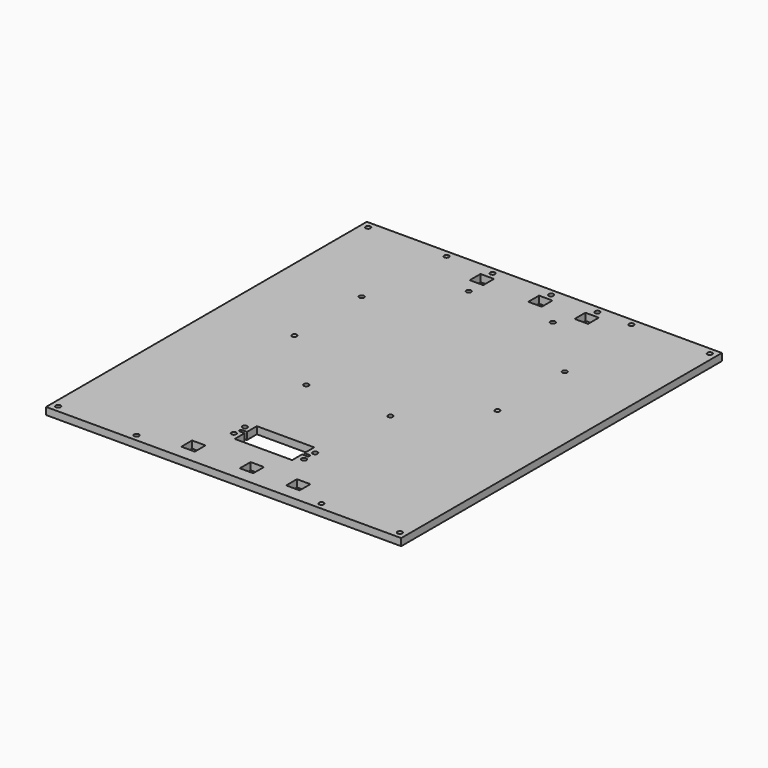
from build123d import *

# Parameters (mm, degrees)
F0_W     = 251.524948
F0_H     = 283.958055
F0_R     = 1.7272
F0_W_2   = 9.525
F0_H_2   = 9.525
F1_DEPTH = 5.08


with BuildPart() as f1:
    # F0 (on Top) → F1 (new body)
    with BuildSketch(Plane.XY):
        with Locations((125.762474, -141.979028)):
            Rectangle(F0_W, F0_H)
        with Locations((4.7625, -279.195555)):
            Circle(F0_R, mode=Mode.SUBTRACT)
        with Locations((60.325, -279.195555)):
            Circle(F0_R, mode=Mode.SUBTRACT)
        with Locations((92.9275, -269.670555)):
            Rectangle(F0_W_2, F0_H_2, mode=Mode.SUBTRACT)
        with Locations((100.870474, -243.82244)):
            Circle(F0_R, mode=Mode.SUBTRACT)
        with Locations((100.870474, -234.04344)):
            Circle(F0_R, mode=Mode.SUBTRACT)
        with BuildLine():
            Line((105.442474, -229.15394), (146.082474, -229.15394))
            Line((146.082474, -229.15394), (146.082474, -237.91694))
            Line((146.082474, -237.91694), (149.511474, -237.91694))
            ThreePointArc((149.511474, -237.91694), (150.527474, -238.93294), (149.511474, -239.94894))
            Line((149.511474, -239.94894), (146.082474, -239.94894))
            Line((146.082474, -239.94894), (146.082474, -248.71194))
            Line((146.082474, -248.71194), (105.442474, -248.71194))
            Line((105.442474, -248.71194), (105.442474, -239.94894))
            Line((105.442474, -239.94894), (102.013474, -239.94894))
            ThreePointArc((102.013474, -239.94894), (100.997474, -238.93294), (102.013474, -237.91694))
            Line((102.013474, -237.91694), (105.442474, -237.91694))
            Line((105.442474, -237.91694), (105.442474, -229.15394))
        make_face(mode=Mode.SUBTRACT)
        with Locations((95.982059, -173.528755)):
            Circle(F0_R, mode=Mode.SUBTRACT)
        with Locations((134.362469, -269.670555)):
            Rectangle(F0_W_2, F0_H_2, mode=Mode.SUBTRACT)
        with Locations((167.197443, -269.670555)):
            Rectangle(F0_W_2, F0_H_2, mode=Mode.SUBTRACT)
        with Locations((150.654474, -243.82244)):
            Circle(F0_R, mode=Mode.SUBTRACT)
        with Locations((150.654474, -234.04344)):
            Circle(F0_R, mode=Mode.SUBTRACT)
        with Locations((191.199948, -279.195555)):
            Circle(F0_R, mode=Mode.SUBTRACT)
        with Locations((246.762448, -279.195555)):
            Circle(F0_R, mode=Mode.SUBTRACT)
        with Locations((155.542889, -173.528755)):
            Circle(F0_R, mode=Mode.SUBTRACT)
        with Locations((53.866193, -131.412889)):
            Circle(F0_R, mode=Mode.SUBTRACT)
        with Locations((53.866193, -71.852059)):
            Circle(F0_R, mode=Mode.SUBTRACT)
        with Locations((4.7625, -4.7625)):
            Circle(F0_R, mode=Mode.SUBTRACT)
        with Locations((60.325, -4.7625)):
            Circle(F0_R, mode=Mode.SUBTRACT)
        with Locations((92.9275, -14.2875)):
            Rectangle(F0_W_2, F0_H_2, mode=Mode.SUBTRACT)
        with Locations((92.9275, -4.7625)):
            Circle(F0_R, mode=Mode.SUBTRACT)
        with Locations((95.982059, -29.736193)):
            Circle(F0_R, mode=Mode.SUBTRACT)
        with Locations((197.658755, -131.412889)):
            Circle(F0_R, mode=Mode.SUBTRACT)
        with Locations((197.658755, -71.852059)):
            Circle(F0_R, mode=Mode.SUBTRACT)
        with Locations((155.542889, -29.736193)):
            Circle(F0_R, mode=Mode.SUBTRACT)
        with Locations((134.362469, -14.2875)):
            Rectangle(F0_W_2, F0_H_2, mode=Mode.SUBTRACT)
        with Locations((134.362469, -4.7625)):
            Circle(F0_R, mode=Mode.SUBTRACT)
        with Locations((167.197443, -14.2875)):
            Rectangle(F0_W_2, F0_H_2, mode=Mode.SUBTRACT)
        with Locations((167.197443, -4.7625)):
            Circle(F0_R, mode=Mode.SUBTRACT)
        with Locations((191.199948, -4.7625)):
            Circle(F0_R, mode=Mode.SUBTRACT)
        with Locations((246.762448, -4.7625)):
            Circle(F0_R, mode=Mode.SUBTRACT)
    extrude(amount=F1_DEPTH)


solid = f1.part
